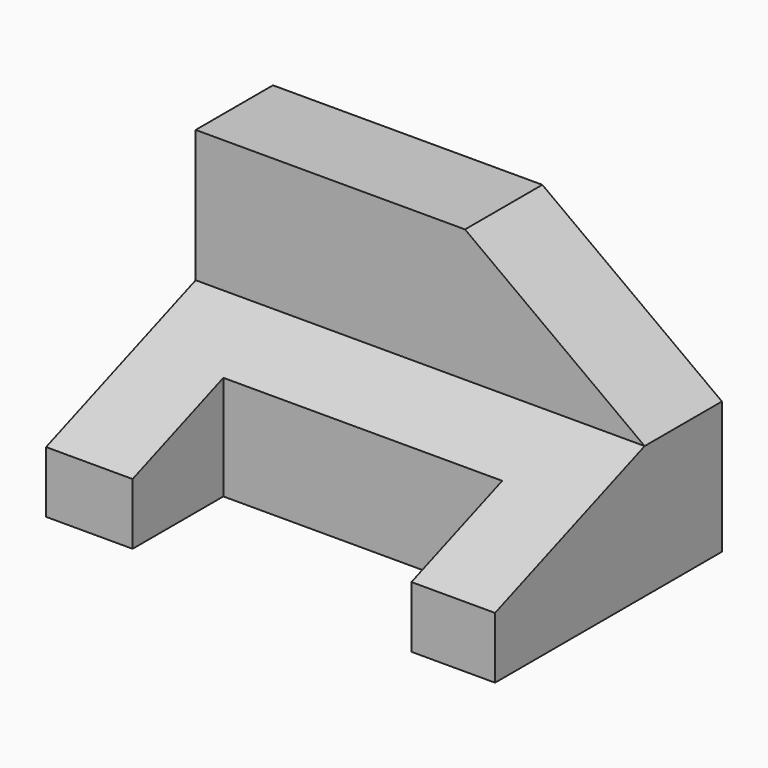
from build123d import *

# Parameters (mm, degrees)
F0_W     = 20.443046
F0_H     = 28
F1_DEPTH = 95
F3_DEPTH = 25
F4_W     = 59
F4_H     = 24
F5_DEPTH = 25


with BuildPart() as f1:
    # F0 (on Right) → F1 (new body)
    with BuildSketch(Plane.YZ):
        with Locations((-4.743823, 8.828466)):
            Rectangle(F0_W, F0_H)
        Polygon((-54.5223, -20.171534), (-54.5223, -33.171534), (5.4777, -33.171534), (5.4777, -5.171534), (-14.965346, -5.171534), align=None)
    extrude(amount=-F1_DEPTH)

    # F2 (on face) → F3 (cut)
    with BuildSketch(Plane.XZ.offset(14.965346)):
        Polygon((0, 22.828466), (-38, 22.828466), (0, -5.171534), align=None)
    extrude(amount=-F3_DEPTH, mode=Mode.SUBTRACT)

    # F4 (on face) → F5 (cut)
    with BuildSketch(Plane(origin=(0, 0, -33.171534), x_dir=(1, 0, 0), z_dir=(0, 0, -1))):
        with Locations((-47.190733, 42.5223)):
            Rectangle(F4_W, F4_H)
    extrude(amount=-F5_DEPTH, mode=Mode.SUBTRACT)


solid = f1.part
